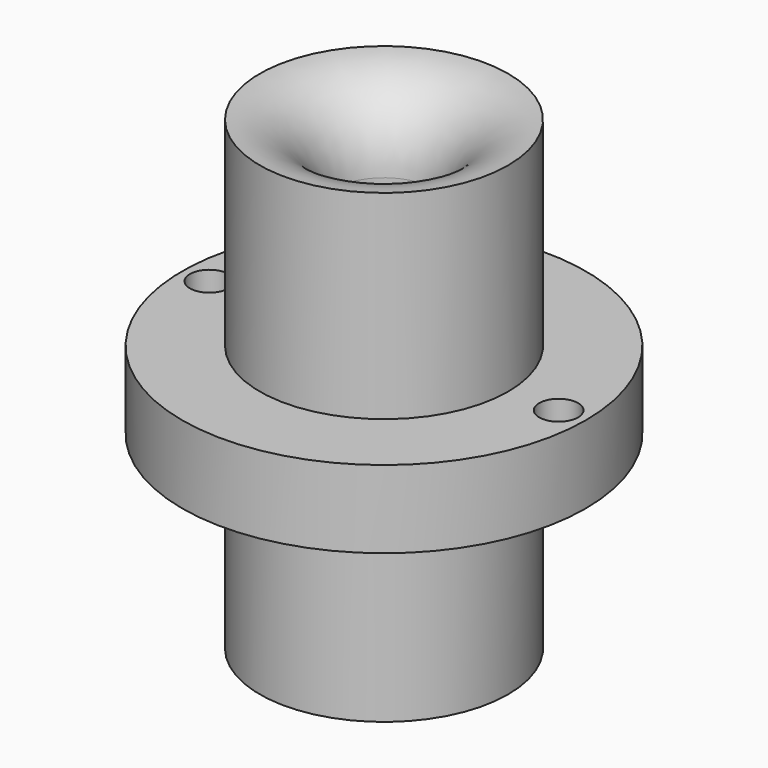
from build123d import *

# Parameters (mm, degrees)
F4_D = 5


with BuildPart() as f2:
    # F0 (on Front) → F2 (revolve)
    with BuildSketch(Plane.XZ):
        with BuildLine():
            Line((6.5, 50.012508), (6.5, 0))
            Line((6.5, 0), (16, 0))
            Line((16, 0), (16, 24.341691))
            Line((16, 24.341691), (26, 24.341691))
            Line((26, 24.341691), (26, 34.341691))
            Line((26, 34.341691), (16, 34.341691))
            Line((16, 34.341691), (16, 60))
            ThreePointArc((16, 60), (9.254312, 56.904532), (6.5, 50.012508))
        make_face()
    revolve(axis=Axis((0, 0, 35.208348), (0, 0, 1)))

    # F4 (through all)
    with Locations(Plane.XY.offset(34.341691)):
        with Locations((-22.5, 0), (22.5, 0)):
            Hole(F4_D / 2)


solid = f2.part
